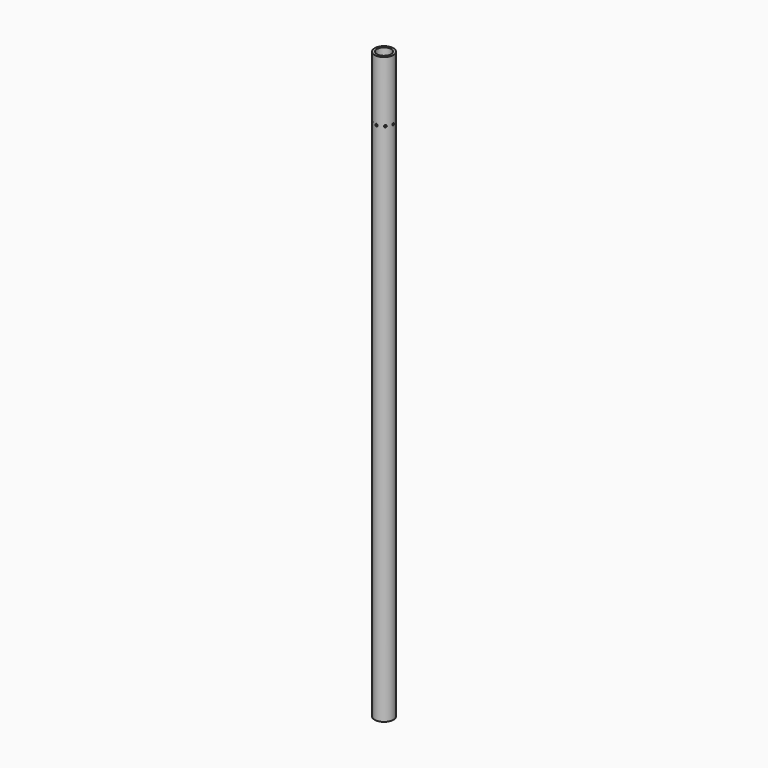
from build123d import *

# Parameters (mm, degrees)
SKETCH_R           = 4
SKETCH_R_2         = 3
PAD_DEPTH          = 250
SKETCH001_W        = 5
SKETCH001_H        = 5
PAD001_DEPTH       = 10
SKETCH002_R        = 0.5
POCKET_DEPTH       = 3
POLARPATTERN_COUNT = 8
SKETCH003_W        = 8.429369
SKETCH003_H        = 7.155477
POCKET001_DEPTH    = 10


with BuildPart() as part:
    # Sketch → Pad (new body)
    with BuildSketch(Plane.XY.offset(44)):
        Circle(SKETCH_R)
        Circle(SKETCH_R_2, mode=Mode.SUBTRACT)
    extrude(amount=PAD_DEPTH)

    # Sketch001 → Pad001 (new body)
    with BuildSketch(Plane.XY.offset(294)):
        with Locations((2.5, -2.5)):
            Rectangle(SKETCH001_W, SKETCH001_H)
    extrude(amount=PAD001_DEPTH)

    # Sketch002 → Pocket (cut)
    with BuildSketch(Plane(origin=(0, -5, 44), x_dir=(1, 0, 0), z_dir=(0, -1, 0))):
        with Locations((0, 224)):
            Circle(SKETCH002_R)
    pocket = extrude(amount=-POCKET_DEPTH, mode=Mode.SUBTRACT)

    # PolarPattern: Pocket ×8 about axis
    polarpattern_axis = Axis((0, 0, 299), (0, 0, 1))
    for i in range(1, POLARPATTERN_COUNT):
        add(pocket.rotate(polarpattern_axis, i * 360 / POLARPATTERN_COUNT), mode=Mode.SUBTRACT)

    # Sketch003 → Pocket001 (cut)
    with BuildSketch(Plane.XY.offset(304)):
        with Locations((3.121665, -2.696092)):
            Rectangle(SKETCH003_W, SKETCH003_H)
    extrude(amount=-POCKET001_DEPTH, mode=Mode.SUBTRACT)


solid = part.part
